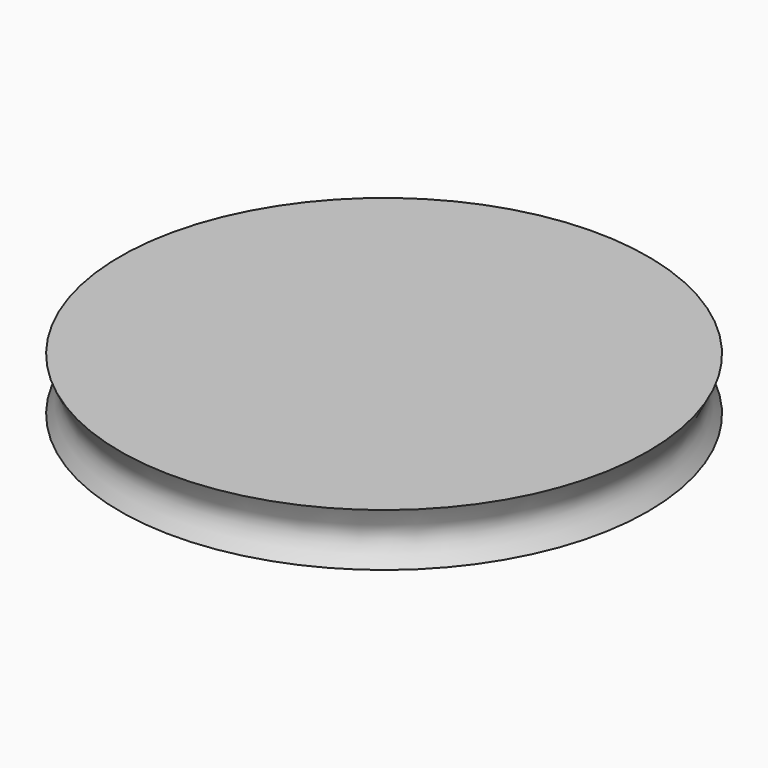
from build123d import *


with BuildPart() as f1:
    # F0 (on Front) → F1 (revolve)
    with BuildSketch(Plane.XZ):
        with BuildLine():
            Line((12.7, 1.27), (0, 1.27))
            Line((0, 1.27), (0, -1.27))
            Line((0, -1.27), (12.7, -1.27))
            add(Edge.make_bspline(
                [(12.7, 1.27), (12.447126, 0.839914), (11.948571, 0.006751), (12.423731, -0.853416), (12.7, -1.27)],
                knots=[0, 0, 0, 0, 1.367832, 2.735664, 2.735664, 2.735664, 2.735664], degree=3))
        make_face()
    revolve(axis=Axis((0, 0, 0), (0, 0, -1)))


solid = f1.part
